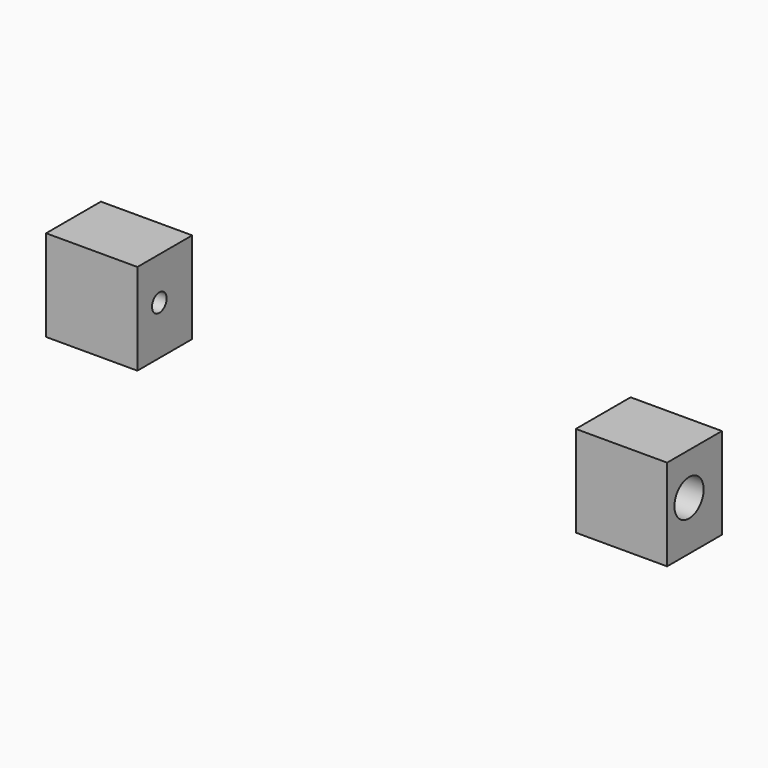
from build123d import *

# Parameters (mm, degrees)
CYLINDER404_R     = 2
CYLINDER404_DEPTH = 44
CYLINDER403_R     = 4
CYLINDER403_DEPTH = 30
BOX515_W          = 20
BOX515_H          = 15
BOX515_DEPTH      = 20
CYLINDER406_R     = 2
CYLINDER406_DEPTH = 44
CYLINDER405_R     = 4
CYLINDER405_DEPTH = 30
BOX516_W          = 20
BOX516_H          = 15
BOX516_DEPTH      = 20


with BuildPart() as cylinder404:
    # Cylinder404 → Cylinder404 (new body)
    with BuildSketch(Plane(origin=(-126, -72, 10.7), x_dir=(0, 0, -1), z_dir=(1, 0, 0))):
        Circle(CYLINDER404_R)
    extrude(amount=CYLINDER404_DEPTH)


with BuildPart() as cylinder403:
    # Cylinder403 → Cylinder403 (new body)
    with BuildSketch(Plane(origin=(-116, -72, 10.79), x_dir=(0, 0, -1), z_dir=(1, 0, 0))):
        Circle(CYLINDER403_R)
    extrude(amount=CYLINDER403_DEPTH)


with BuildPart() as cut437:
    # Box515 → Box515 (new body)
    with BuildSketch(Plane(origin=(-102, -78, 0), x_dir=(1, 0, 0), z_dir=(0, 0, 1))):
        with Locations((10, 7.5)):
            Rectangle(BOX515_W, BOX515_H)
    extrude(amount=BOX515_DEPTH)

    # Cut436: cut Cylinder403
    add(cylinder403.part, mode=Mode.SUBTRACT)

    # Cut437: cut Cylinder404
    add(cylinder404.part, mode=Mode.SUBTRACT)


with BuildPart() as cylinder406:
    # Cylinder406 → Cylinder406 (new body)
    with BuildSketch(Plane(origin=(14, -72, 10.79), x_dir=(0, 0, -1), z_dir=(1, 0, 0))):
        Circle(CYLINDER406_R)
    extrude(amount=CYLINDER406_DEPTH)


with BuildPart() as cylinder405:
    # Cylinder405 → Cylinder405 (new body)
    with BuildSketch(Plane(origin=(18, -72, 10.79), x_dir=(0, 0, -1), z_dir=(1, 0, 0))):
        Circle(CYLINDER405_R)
    extrude(amount=CYLINDER405_DEPTH)


with BuildPart() as fusion399:
    # Box516 → Box516 (new body)
    with BuildSketch(Plane(origin=(14, -78, 0), x_dir=(1, 0, 0), z_dir=(0, 0, 1))):
        with Locations((10, 7.5)):
            Rectangle(BOX516_W, BOX516_H)
    extrude(amount=BOX516_DEPTH)

    # Cut438: cut Cylinder405
    add(cylinder405.part, mode=Mode.SUBTRACT)

    # Cut439: cut Cylinder406
    add(cylinder406.part, mode=Mode.SUBTRACT)

    # Fusion399: union Cut437
    add(cut437.part)


with BuildPart() as fusion399_1:
    # Fusion399 placement: moved
    add(fusion399.part.moved(Location((0, 123, 0))))


solid = fusion399_1.part
